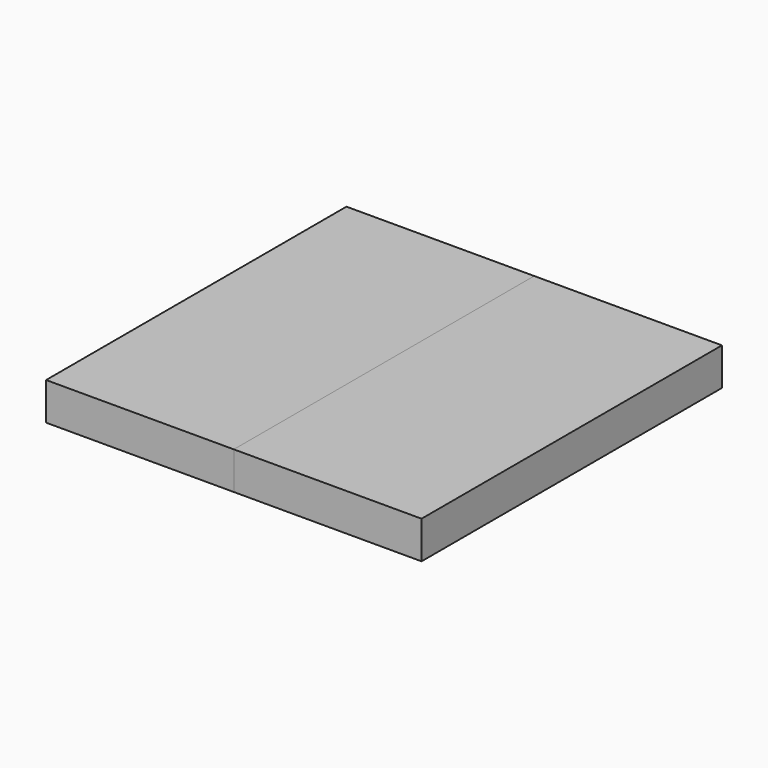
from build123d import *

# Parameters (mm, degrees)
F0_W     = 50
F0_H     = 100
F1_DEPTH = 10


with BuildPart() as f1:
    # F0 (on Top) → F1 (new body)
    with BuildSketch(Plane.XY):
        with Locations((25, 50)):
            Rectangle(F0_W, F0_H)
    extrude(amount=F1_DEPTH)


with BuildPart() as f2_1:
    # F2: copy of F1
    add(f1.part.moved(Location((50, 0, 0))))


solid = Compound([f1.part, f2_1.part])
